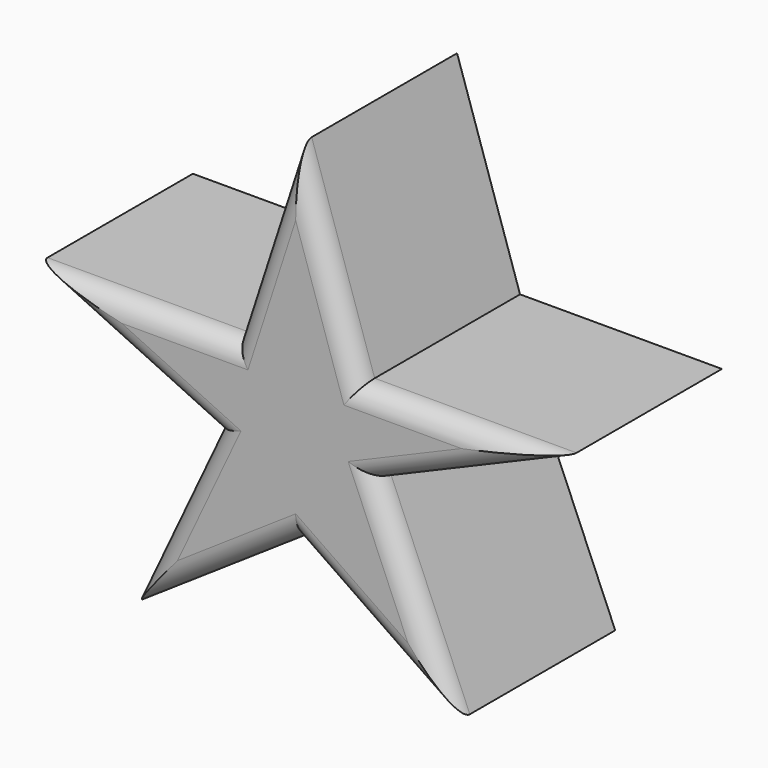
from build123d import *

# Parameters (mm, degrees)
F1_DEPTH = 25.4
F2_R     = 2.54


with BuildPart() as f1:
    # F0 (on Front) → F1 (new body)
    with BuildSketch(Plane.XZ):
        Polygon((7.91931, 8.911282), (0, 33.04517), (-7.841102, 8.88576), (-33.241102, 8.88576), (-10.255572, -1.922819), (-21.064151, -24.90835), (0, -10.714634), (19.897551, -24.408027), (9.948775, -1.037493), (33.31931, 8.911282), align=None)
    extrude(amount=F1_DEPTH)

    # F2
    f2_edges = [f1.edges().sort_by_distance(p)[0] for p in [
        (-20.541102, -25.4, 8.88576),
        (-21.748337, -25.4, 3.48147),
        (-15.659861, -25.4, -13.415585),
        (-10.532075, -25.4, -17.811492),
        (9.948775, -25.4, -17.561331),
        (14.923163, -25.4, -12.72276),
        (21.634042, -25.4, 3.936895),
        (20.61931, -25.4, 8.911282),
        (3.959655, -25.4, 20.978226),
        (-3.920551, -25.4, 20.965465),
    ]]
    fillet(f2_edges, radius=F2_R)


solid = f1.part
